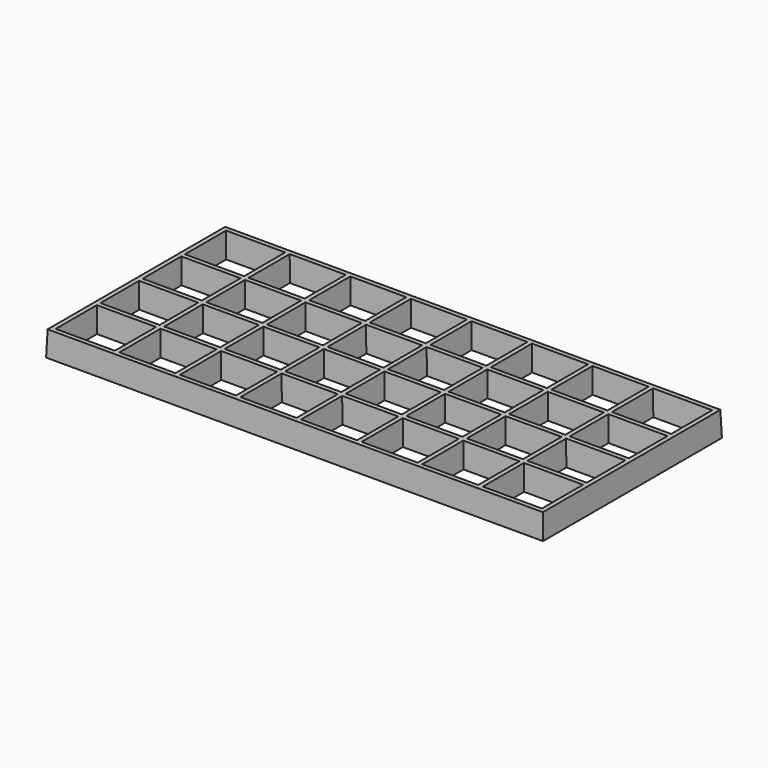
from build123d import *

# Parameters (mm, degrees)
F0_W     = 254
F0_H     = 114.3
F0_W_2   = 3.175
F0_H_2   = 25.4
F0_W_3   = 29.36875
F0_H_3   = 3.175
F0_W_4   = 27.78125
F0_H_4   = 23.8125
F1_DEPTH = 12.7
F1_TAPER = 2


with BuildPart() as f1:
    # F0 (on Top) → F1 (new body)
    with BuildSketch(Plane.XY):
        Rectangle(F0_W, F0_H)
        Polygon((94.45625, 53.975), (123.825, 53.975), (123.825, 28.575), (123.825, 25.4), (123.825, 1.5875), (123.825, -1.5875), (123.825, -25.4), (123.825, -28.575), (123.825, -53.975), (94.45625, -53.975), (91.28125, -53.975), (63.5, -53.975), (60.325, -53.975), (32.54375, -53.975), (29.36875, -53.975), (1.5875, -53.975), (-1.5875, -53.975), (-29.36875, -53.975), (-32.54375, -53.975), (-60.325, -53.975), (-63.5, -53.975), (-91.28125, -53.975), (-94.45625, -53.975), (-123.825, -53.975), (-123.825, -28.575), (-123.825, -25.4), (-123.825, -1.5875), (-123.825, 1.5875), (-123.825, 25.4), (-123.825, 28.575), (-123.825, 53.975), (-94.45625, 53.975), (-91.28125, 53.975), (-63.5, 53.975), (-60.325, 53.975), (-32.54375, 53.975), (-29.36875, 53.975), (-1.5875, 53.975), (1.5875, 53.975), (29.36875, 53.975), (32.54375, 53.975), (60.325, 53.975), (63.5, 53.975), (91.28125, 53.975), align=None, mode=Mode.SUBTRACT)
        with Locations((-92.86875, 41.275)):
            Rectangle(F0_W_2, F0_H_2)
        with Locations((-61.9125, 41.275)):
            Rectangle(F0_W_2, F0_H_2)
        with Locations((-30.95625, 41.275)):
            Rectangle(F0_W_2, F0_H_2)
        with Locations((0, 41.275)):
            Rectangle(F0_W_2, F0_H_2)
        with Locations((30.95625, 41.275)):
            Rectangle(F0_W_2, F0_H_2)
        with Locations((61.9125, 41.275)):
            Rectangle(F0_W_2, F0_H_2)
        with Locations((92.86875, 41.275)):
            Rectangle(F0_W_2, F0_H_2)
        with Locations((109.140625, 26.9875)):
            Rectangle(F0_W_3, F0_H_3)
        with Locations((92.86875, 26.9875)):
            Rectangle(F0_W_2, F0_H_3)
        with Locations((77.390625, 26.9875)):
            Rectangle(F0_W_4, F0_H_3)
        with Locations((61.9125, 26.9875)):
            Rectangle(F0_W_2, F0_H_3)
        with Locations((30.95625, 26.9875)):
            Rectangle(F0_W_2, F0_H_3)
        with Locations((46.434375, 26.9875)):
            Rectangle(F0_W_4, F0_H_3)
        with Locations((15.478125, 26.9875)):
            Rectangle(F0_W_4, F0_H_3)
        with Locations((0, 26.9875)):
            Rectangle(F0_W_2, F0_H_3)
        with Locations((-15.478125, 26.9875)):
            Rectangle(F0_W_4, F0_H_3)
        with Locations((-30.95625, 26.9875)):
            Rectangle(F0_W_2, F0_H_3)
        with Locations((-46.434375, 26.9875)):
            Rectangle(F0_W_4, F0_H_3)
        with Locations((-61.9125, 26.9875)):
            Rectangle(F0_W_2, F0_H_3)
        with Locations((-77.390625, 26.9875)):
            Rectangle(F0_W_4, F0_H_3)
        with Locations((-92.86875, 26.9875)):
            Rectangle(F0_W_2, F0_H_3)
        with Locations((-109.140625, 26.9875)):
            Rectangle(F0_W_3, F0_H_3)
        with Locations((-92.86875, 13.49375)):
            Rectangle(F0_W_2, F0_H_4)
        with Locations((-61.9125, 13.49375)):
            Rectangle(F0_W_2, F0_H_4)
        with Locations((-30.95625, 13.49375)):
            Rectangle(F0_W_2, F0_H_4)
        with Locations((0, 13.49375)):
            Rectangle(F0_W_2, F0_H_4)
        with Locations((30.95625, 13.49375)):
            Rectangle(F0_W_2, F0_H_4)
        with Locations((61.9125, 13.49375)):
            Rectangle(F0_W_2, F0_H_4)
        with Locations((92.86875, 13.49375)):
            Rectangle(F0_W_2, F0_H_4)
        with Locations((92.86875, 0)):
            Rectangle(F0_W_2, F0_H_3)
        with Locations((109.140625, 0)):
            Rectangle(F0_W_3, F0_H_3)
        with Locations((92.86875, -13.49375)):
            Rectangle(F0_W_2, F0_H_4)
        with Locations((77.390625, 0)):
            Rectangle(F0_W_4, F0_H_3)
        with Locations((61.9125, -13.49375)):
            Rectangle(F0_W_2, F0_H_4)
        with Locations((61.9125, 0)):
            Rectangle(F0_W_2, F0_H_3)
        with Locations((46.434375, 0)):
            Rectangle(F0_W_4, F0_H_3)
        with Locations((30.95625, 0)):
            Rectangle(F0_W_2, F0_H_3)
        with Locations((15.478125, 0)):
            Rectangle(F0_W_4, F0_H_3)
        with Locations((-46.434375, 0)):
            Rectangle(F0_W_4, F0_H_3)
        with Locations((-61.9125, 0)):
            Rectangle(F0_W_2, F0_H_3)
        with Locations((-77.390625, 0)):
            Rectangle(F0_W_4, F0_H_3)
        with Locations((-109.140625, 0)):
            Rectangle(F0_W_3, F0_H_3)
        with Locations((-92.86875, 0)):
            Rectangle(F0_W_2, F0_H_3)
        with Locations((-15.478125, 0)):
            Rectangle(F0_W_4, F0_H_3)
        with Locations((-30.95625, 0)):
            Rectangle(F0_W_2, F0_H_3)
        with Locations((-92.86875, -13.49375)):
            Rectangle(F0_W_2, F0_H_4)
        with Locations((-61.9125, -13.49375)):
            Rectangle(F0_W_2, F0_H_4)
        with Locations((-30.95625, -13.49375)):
            Rectangle(F0_W_2, F0_H_4)
        with Locations((0, -13.49375)):
            Rectangle(F0_W_2, F0_H_4)
        with Locations((30.95625, -13.49375)):
            Rectangle(F0_W_2, F0_H_4)
        with Locations((109.140625, -26.9875)):
            Rectangle(F0_W_3, F0_H_3)
        with Locations((92.86875, -26.9875)):
            Rectangle(F0_W_2, F0_H_3)
        with Locations((77.390625, -26.9875)):
            Rectangle(F0_W_4, F0_H_3)
        with Locations((61.9125, -26.9875)):
            Rectangle(F0_W_2, F0_H_3)
        with Locations((46.434375, -26.9875)):
            Rectangle(F0_W_4, F0_H_3)
        with Locations((30.95625, -26.9875)):
            Rectangle(F0_W_2, F0_H_3)
        with Locations((15.478125, -26.9875)):
            Rectangle(F0_W_4, F0_H_3)
        with Locations((0, -26.9875)):
            Rectangle(F0_W_2, F0_H_3)
        with Locations((-15.478125, -26.9875)):
            Rectangle(F0_W_4, F0_H_3)
        with Locations((-30.95625, -26.9875)):
            Rectangle(F0_W_2, F0_H_3)
        with Locations((-46.434375, -26.9875)):
            Rectangle(F0_W_4, F0_H_3)
        with Locations((-61.9125, -26.9875)):
            Rectangle(F0_W_2, F0_H_3)
        with Locations((-77.390625, -26.9875)):
            Rectangle(F0_W_4, F0_H_3)
        with Locations((-92.86875, -26.9875)):
            Rectangle(F0_W_2, F0_H_3)
        with Locations((-109.140625, -26.9875)):
            Rectangle(F0_W_3, F0_H_3)
        with Locations((-92.86875, -41.275)):
            Rectangle(F0_W_2, F0_H_2)
        with Locations((-61.9125, -41.275)):
            Rectangle(F0_W_2, F0_H_2)
        with Locations((-30.95625, -41.275)):
            Rectangle(F0_W_2, F0_H_2)
        with Locations((0, -41.275)):
            Rectangle(F0_W_2, F0_H_2)
        with Locations((30.95625, -41.275)):
            Rectangle(F0_W_2, F0_H_2)
        with Locations((61.9125, -41.275)):
            Rectangle(F0_W_2, F0_H_2)
        with Locations((92.86875, -41.275)):
            Rectangle(F0_W_2, F0_H_2)
        Rectangle(F0_W_2, F0_H_3)
    extrude(amount=F1_DEPTH, taper=F1_TAPER)


solid = f1.part
